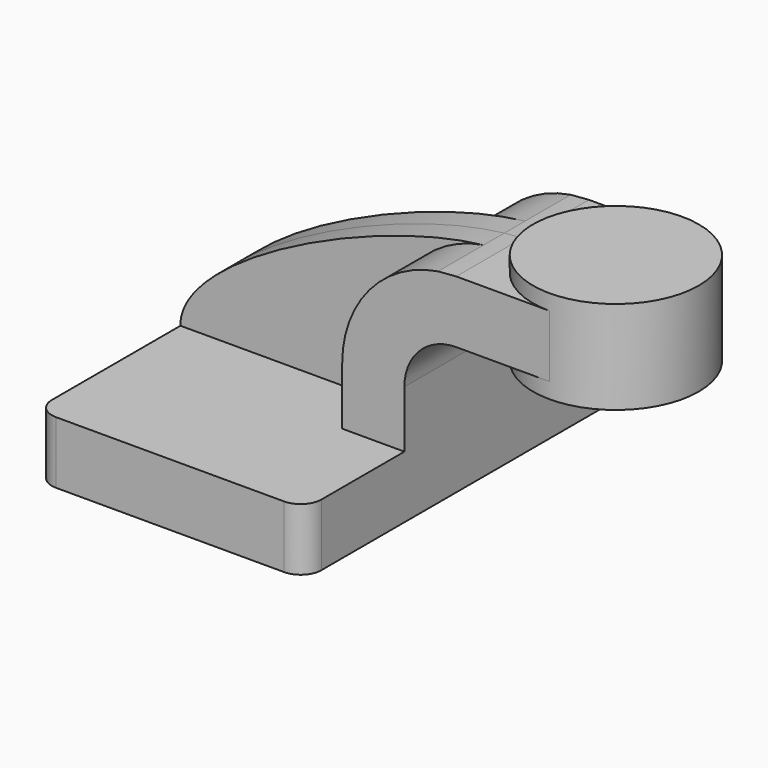
from build123d import *

# Parameters (mm, degrees)
F1_DEPTH = 63.5
F2_DEPTH = 7.9375
F0_W     = 25.4
F0_H     = 19.05
F3_DEPTH = 25.4
F5_R     = 6.35


with BuildPart() as f1:
    # F0 (on Front) → F1 (new body, symmetric)
    with BuildSketch(Plane.XZ):
        Polygon((-41.275, -9.525), (41.275, -9.525), (41.275, 9.525), (22.225, 9.525), (-41.275, 9.525), align=None)
    extrude(amount=F1_DEPTH, both=True)

    # F0 (on Front) → F2 (join, symmetric)
    with BuildSketch(Plane.XZ):
        with BuildLine():
            add(Edge.make_bspline(
                [(-41.275, 9.525), (-41.6549469466, 29.246440989), (16.2084851721, 57.3919038747), (51.5697219999, 61.4765124832)],
                knots=[0, 0, 0, 0, 105.7290350632, 105.7290350632, 105.7290350632, 105.7290350632], degree=3))
            Line((-41.275, 9.525), (22.225, 9.525))
            Line((22.225, 9.525), (22.225, 27.0002))
            ThreePointArc((22.225, 27.0002), (30.5544474192, 49.6371655193), (51.5697219999, 61.4765124832))
        make_face()
    extrude(amount=F2_DEPTH, both=True)

    # F0 (on Front) → F3 (join, symmetric)
    with BuildSketch(Plane.XZ):
        with BuildLine():
            Line((22.225, 9.525), (41.275, 9.525))
            Line((41.275, 9.525), (41.275, 27.0002))
            ThreePointArc((41.275, 27.0002), (45.9246798487, 38.2255201513), (57.15, 42.8752))
            Line((57.15, 42.8752), (60.325, 42.8752))
            Line((60.325, 42.8752), (60.325, 61.9252))
            Line((60.325, 61.9252), (57.15, 61.9252))
            add(Edge.make_bspline(
                [(51.5697219999, 61.4765124832), (53.5013471404, 61.699636259), (55.3658269691, 61.8509637705), (57.15, 61.9252)],
                knots=[105.7290350632, 105.7290350632, 105.7290350632, 105.7290350632, 111.5045361635, 111.5045361635, 111.5045361635, 111.5045361635], degree=3))
            ThreePointArc((51.5697219999, 61.4765124832), (30.5544474192, 49.6371655193), (22.225, 27.0002))
            Line((22.225, 27.0002), (22.225, 9.525))
        make_face()
        with Locations((73.025, 52.4002)):
            Rectangle(F0_W, F0_H)
    extrude(amount=F3_DEPTH, both=True)

    # F0 (on Front) → F4 (revolve)
    with BuildSketch(Plane.XZ):
        Polygon((85.725, 61.9252), (85.725, 42.8752), (85.725, 38.1), (111.125, 38.1), (111.125, 66.675), (85.725, 66.675), align=None)
    revolve(axis=Axis((85.725, 0, 52.3875), (0, 0, 1)))

    # F5
    f5_edges = [f1.edges().sort_by_distance(p)[0] for p in [
        (41.275, -63.5, 0),
        (-41.275, -63.5, 0),
        (-41.275, 63.5, 0),
        (41.275, 63.5, 0),
    ]]
    fillet(f5_edges, radius=F5_R)


solid = f1.part
